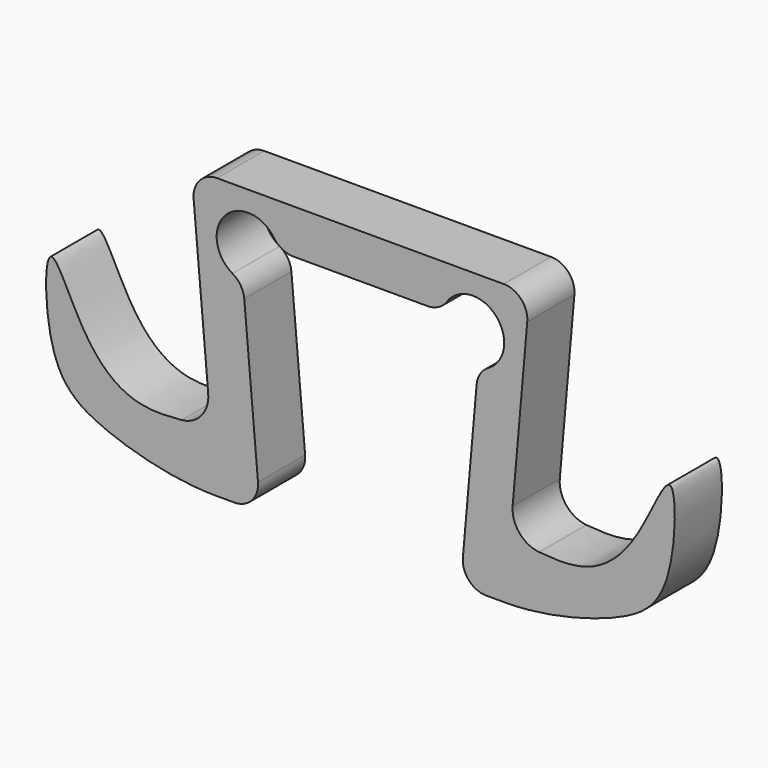
from build123d import *

# Parameters (mm, degrees)
F1_DEPTH = 12.7
F2_R     = 5.08


with BuildPart() as f1:
    # F0 (on Front) → F1 (new body)
    with BuildSketch(Plane.XZ):
        with BuildLine():
            Line((36.4291375798, 9.525), (0, 9.525))
            Line((0, 9.525), (-36.4291375798, 9.525))
            Line((-36.4291375798, 9.525), (-32.798750978, -31.9705087373))
            ThreePointArc((-32.798750978, -31.9705087373), (-34.2457905746, -36.5884086035), (-38.5263887048, -38.84570841))
            add(Edge.make_bspline(
                [(-38.5263887048, -38.84570841), (-41.1954683156, -39.0982709123), (-50.3457061063, -39.5782191674), (-60.0439986707, -30.6960135007), (-68.3564968232, -8.5882013137), (-67.9825719796, -38.2060581711), (-55.9969026163, -46.7617580103), (-39.5026125976, -50.8), (-31.1513839526, -50.8)],
                knots=[0.0753556206, 0.0753556206, 0.0753556206, 0.0753556206, 0.1548416962, 0.321058127, 0.4682661838, 0.6401832458, 0.7980975987, 1, 1, 1, 1], degree=3))
            Line((-31.1513839526, -50.8), (-27.1338471854, -50.8))
            ThreePointArc((-27.1338471854, -50.8), (-23.3884783144, -49.1519982547), (-22.0731781191, -45.2772488268))
            Line((-22.0731781191, -45.2772488268), (-25.3099710852, -8.280535931))
            ThreePointArc((-25.3099710852, -8.280535931), (-29.1844152423, 2.9722891299), (-17.6604017615, 0))
            Line((-17.6604017615, 0), (0, 0))
            Line((0, 0), (17.6604017615, 0))
            ThreePointArc((17.6604017615, 0), (29.1844152423, 2.9722891299), (25.3099710852, -8.280535931))
            Line((25.3099710852, -8.280535931), (22.0731781191, -45.2772488268))
            ThreePointArc((22.0731781191, -45.2772488268), (23.3884783144, -49.1519982547), (27.1338471854, -50.8))
            Line((27.1338471854, -50.8), (31.1513839526, -50.8))
            add(Edge.make_bspline(
                [(38.5263887048, -38.84570841), (41.1954683156, -39.0982709123), (50.3457061063, -39.5782191674), (60.0439986707, -30.6960135007), (68.3564968232, -8.5882013137), (67.9825719796, -38.2060581711), (55.9969026163, -46.7617580103), (39.5026125976, -50.8), (31.1513839526, -50.8)],
                knots=[0.0753556206, 0.0753556206, 0.0753556206, 0.0753556206, 0.1548416962, 0.321058127, 0.4682661838, 0.6401832458, 0.7980975987, 1, 1, 1, 1], degree=3))
            ThreePointArc((38.5263887048, -38.84570841), (34.2457905746, -36.5884086035), (32.798750978, -31.9705087373))
            Line((32.798750978, -31.9705087373), (36.4291375798, 9.525))
        make_face()
    extrude(amount=F1_DEPTH)

    # F2
    f2_edges = [f1.edges().sort_by_distance(p)[0] for p in [
        (-36.429138, -6.35, 9.525),
        (-25.309971, -6.35, -8.280536),
        (-17.660402, -6.35, 0),
        (17.660402, -6.35, 0),
        (25.309971, -6.35, -8.280536),
        (36.429138, -6.35, 9.525),
    ]]
    fillet(f2_edges, radius=F2_R)


solid = f1.part
